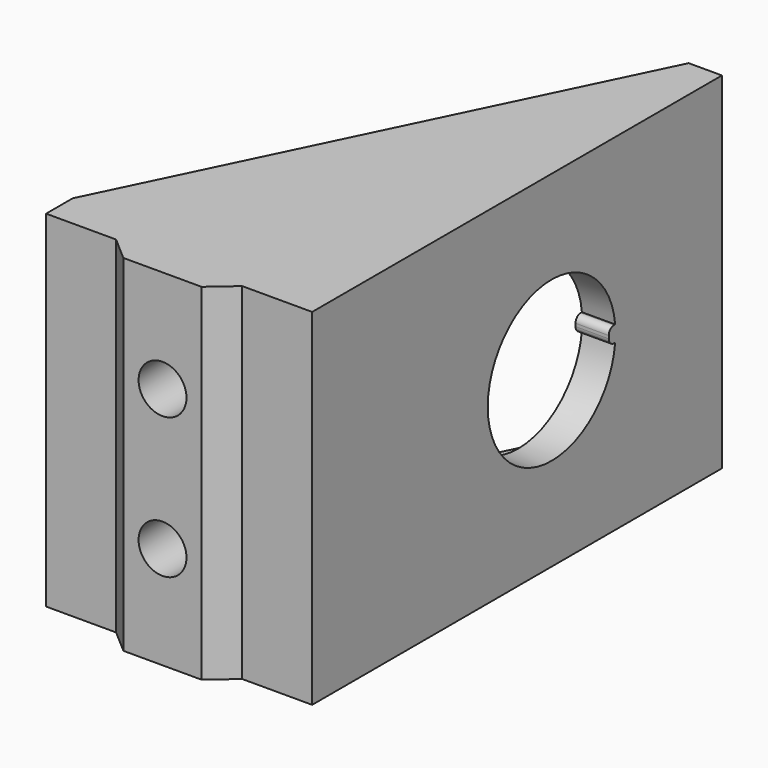
from build123d import *

# Parameters (mm, degrees)
PAD_DEPTH       = 26
PAD001_DEPTH    = 26
SKETCH002_W     = 36
SKETCH002_H     = 20
POCKET_DEPTH    = 17.5
PAD002_DEPTH    = 26
SKETCH004_R     = 1.8
POCKET001_DEPTH = 40.061
SKETCH005_R     = 6
POCKET002_DEPTH = 2.501
SKETCH006_W     = 2
SKETCH006_H     = 1.2
PAD003_DEPTH    = 2.5
FILLET_R        = 0.49


with BuildPart() as part:
    # Sketch → Pad (new body)
    with BuildSketch(Plane.XY):
        Polygon((0, 0), (0, 38.5), (-2.5, 38.5), (-2.5, 2.5), (-20, 2.5), (-20, 0), align=None)
    extrude(amount=PAD_DEPTH)

    # Sketch001 (on Face7 of Pad) → Pad001 (join)
    with BuildSketch(Plane(origin=(0, 0, 0), x_dir=(1, 0, 0), z_dir=(0, 0, -1))):
        Polygon((-20, -2.5), (-2.5, -38.5), (-2.5, -2.5), align=None)
    extrude(amount=-PAD001_DEPTH)

    # Sketch002 (on Face6 of Pad001) → Pocket (cut)
    with BuildSketch(Plane(origin=(-20, 0, 0), x_dir=(0, -1, 0), z_dir=(-1, 0, 0))):
        with Locations((-20.5, 13)):
            Rectangle(SKETCH002_W, SKETCH002_H)
    extrude(amount=-POCKET_DEPTH, mode=Mode.SUBTRACT)

    # Sketch003 (on Face4 of Pocket) → Pad002 (join)
    with BuildSketch(Plane(origin=(0, 0, 0), x_dir=(1, 0, 0), z_dir=(0, 0, -1))):
        Polygon((-14.74, 0), (-5.26, 0), (-7.06, 1.56), (-12.94, 1.56), align=None)
    extrude(amount=-PAD002_DEPTH)

    # Sketch004 (on Face16 of Pad002) → Pocket001 (cut, through all)
    with BuildSketch(Plane.XZ.offset(1.56)):
        with Locations((-10, 18.286)):
            Circle(SKETCH004_R)
        with Locations((-10, 7.714)):
            Circle(SKETCH004_R)
    extrude(amount=-POCKET001_DEPTH, mode=Mode.SUBTRACT)

    # Sketch005 (on Face8 of Pocket001) → Pocket002 (cut, through all)
    with BuildSketch(Plane(origin=(-2.5, 0, 0), x_dir=(0, -1, 0), z_dir=(-1, 0, 0))):
        with Locations((-22.5, 13)):
            Circle(SKETCH005_R)
    extrude(amount=-POCKET002_DEPTH, mode=Mode.SUBTRACT)

    # Sketch006 (on Face1 of Pocket002) → Pad003 (join)
    with BuildSketch(Plane.YZ):
        with Locations((28.869925, 13)):
            Rectangle(SKETCH006_W, SKETCH006_H)
    extrude(amount=-PAD003_DEPTH)

    # Fillet
    fillet_edges = [part.edges().sort_by_distance(p)[0] for p in [
        (-1.25, 27.869925, 12.4),
        (-1.25, 27.869925, 13.6),
    ]]
    fillet(fillet_edges, radius=FILLET_R)


solid = part.part
